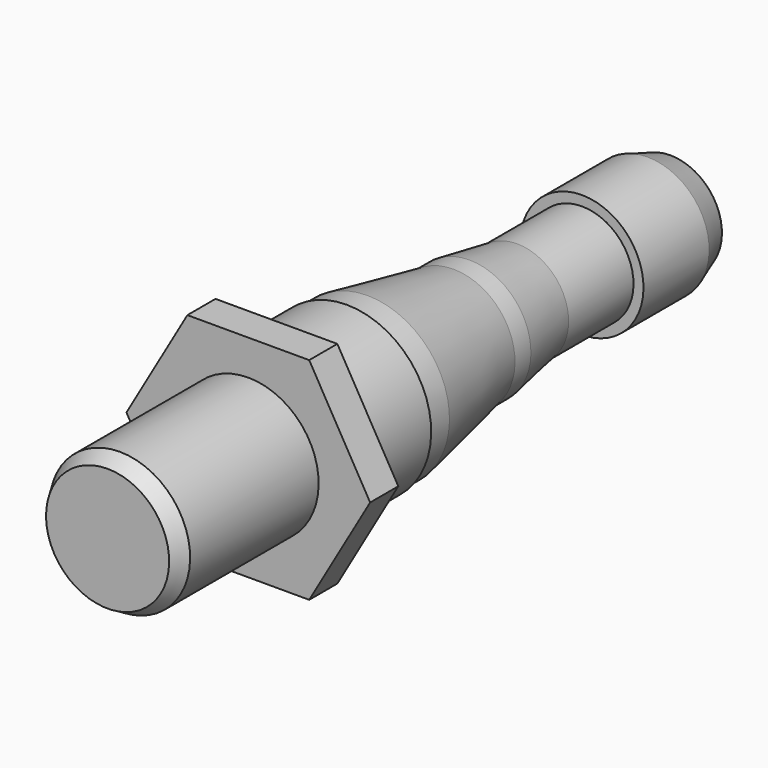
from build123d import *

# Parameters (mm, degrees)
F3_R     = 7.2
F4_DEPTH = 3
F5_SIZE2 = 0.75
F5_SIZE  = 1.2990381057


with BuildPart() as f2:
    # F0 (on Right) → F2 (revolve)
    with BuildSketch(Plane.YZ):
        Polygon((0, 6), (0, 0), (60, 0), (60, 4.4), (57.5712198913, 5.25), (50.5712198913, 5.25), (50.5712198913, 4.4), (43.6577536166, 4.4), (38.5712198913, 5.25), (36.8757098913, 5.25), (27.7, 7), (25.5, 7), (25.5, 7.2), (15, 7.2), (15, 6), align=None)
    revolve(axis=Axis((0, -0.2503991127, 0), (0, 1, 0)))

    # F3 (on face) → F4 (join)
    with BuildSketch(Plane.XZ.offset(-15)):
        Polygon((5.1961524227, 9), (-5.1961524227, 9), (-10.3923048454, 0), (-5.1961524227, -9), (5.1961524227, -9), (10.3923048454, 0), align=None)
        Circle(F3_R, mode=Mode.SUBTRACT)
    extrude(amount=-F4_DEPTH)

    # F5
    f5_edges = [f2.edges().sort_by_distance(p)[0] for p in [
        (0, 0, -6),
    ]]
    f5_side = f2.faces().sort_by_distance((0, 7.5, -6))[0]
    chamfer(f5_edges, length=F5_SIZE, length2=F5_SIZE2, reference=f5_side)


solid = f2.part
